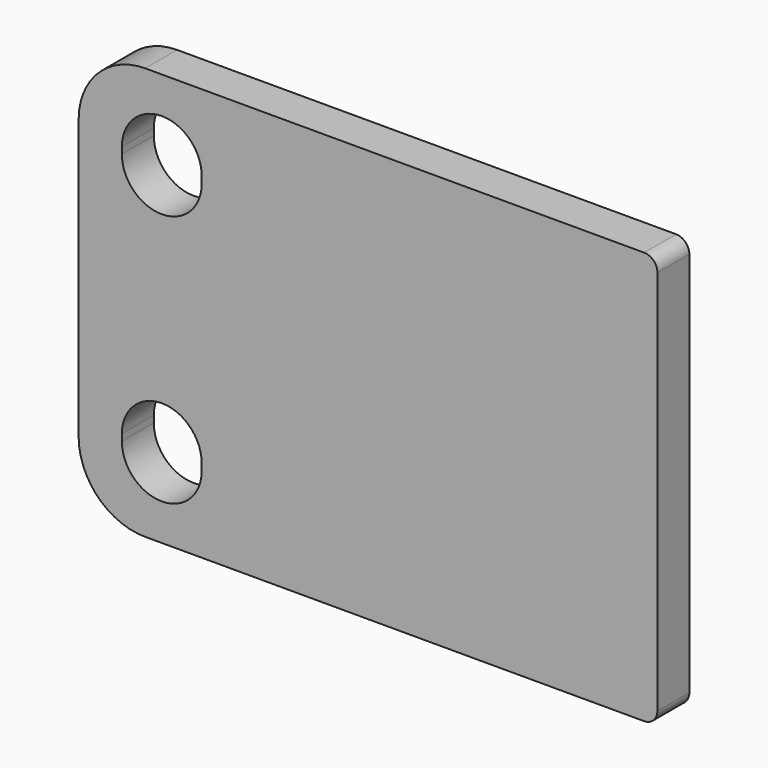
from build123d import *

# Parameters (mm, degrees)
F1_DEPTH = 6


with BuildPart() as f1:
    # F0 (on Front) → F1 (new body)
    with BuildSketch(Plane.XZ):
        with BuildLine():
            ThreePointArc((-43.5, -21), (-40.571068, -28.071068), (-33.5, -31))
            Line((-33.5, -31), (41.5, -31))
            ThreePointArc((41.5, -31), (42.914214, -30.414214), (43.5, -29))
            Line((43.5, -29), (43.5, 29))
            ThreePointArc((43.5, 29), (42.914214, 30.414214), (41.5, 31))
            Line((41.5, 31), (-33.5, 31))
            ThreePointArc((-33.5, 31), (-40.571068, 28.071068), (-43.5, 21))
            Line((-43.5, 21), (-43.5, -21))
        make_face()
        with BuildLine():
            ThreePointArc((-37, -18.5), (-31, -12.5), (-25, -18.5))
            Line((-25, -18.5), (-25, -19.5))
            ThreePointArc((-25, -19.5), (-31, -25.5), (-37, -19.5))
            Line((-37, -19.5), (-37, -18.5))
        make_face(mode=Mode.SUBTRACT)
        with BuildLine():
            ThreePointArc((-25, 18.5), (-31, 12.5), (-37, 18.5))
            Line((-37, 18.5), (-37, 19.5))
            ThreePointArc((-37, 19.5), (-31, 25.5), (-25, 19.5))
            Line((-25, 19.5), (-25, 18.5))
        make_face(mode=Mode.SUBTRACT)
    extrude(amount=F1_DEPTH)


solid = f1.part
